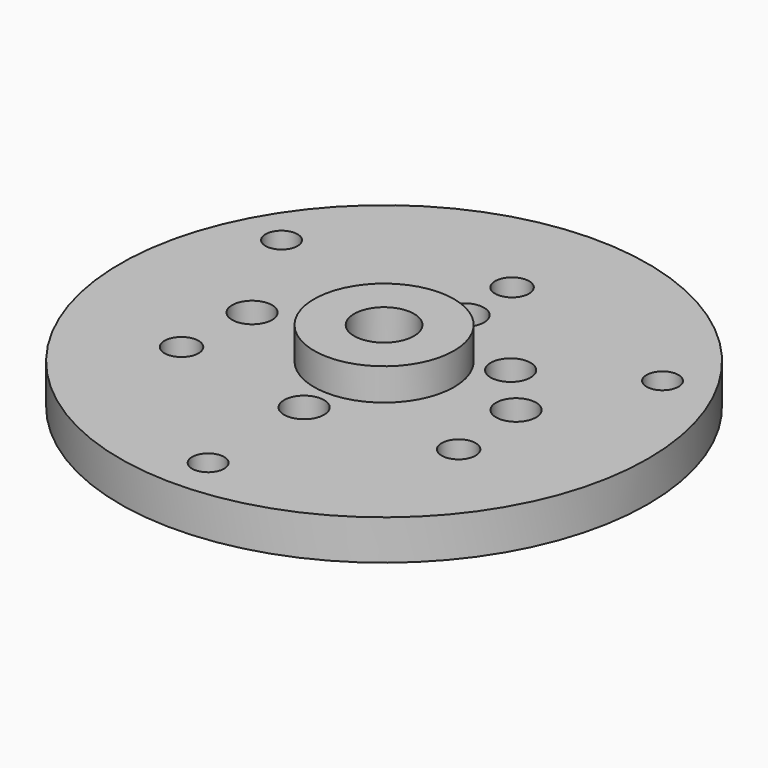
from build123d import *

# Parameters (mm, degrees)
F0_R     = 66
F0_R_2   = 17.5
F0_R_3   = 7.5
F1_DEPTH = 10
F2_DEPTH = 18
F3_R     = 5
F3_R_2   = 4.25
F3_R_3   = 4
F4_DEPTH = 10


with BuildPart() as f1:
    # F0 (on Top) → F1 (new body)
    with BuildSketch(Plane.XY):
        Circle(F0_R)
        Circle(F0_R_2, mode=Mode.SUBTRACT)
        Circle(F0_R_2)
        Circle(F0_R_3, mode=Mode.SUBTRACT)
    extrude(amount=F1_DEPTH)

    # F0 (on Top) → F2 (join)
    with BuildSketch(Plane.XY):
        Circle(F0_R_2)
        Circle(F0_R_3, mode=Mode.SUBTRACT)
    extrude(amount=F2_DEPTH)

    # F3 (on face) → F4 (cut, through all)
    with BuildSketch(Plane.XY.offset(10)):
        with Locations((0, -25)):
            Circle(F3_R)
        with Locations((21.650635, 12.5)):
            Circle(F3_R)
        with Locations((0, 25)):
            Circle(F3_R)
        with Locations((-21.650635, 12.5)):
            Circle(F3_R)
        with Locations((-33, 0)):
            Circle(F3_R)
        with Locations((33, 0)):
            Circle(F3_R)
        with Locations((-34.641016, -20)):
            Circle(F3_R_2)
        with Locations((0, 40)):
            Circle(F3_R_2)
        with Locations((34.641016, -20)):
            Circle(F3_R_2)
        with Locations((0, -55)):
            Circle(F3_R_3)
        with Locations((-47.631397, 27.5)):
            Circle(F3_R_3)
        with Locations((47.631397, 27.5)):
            Circle(F3_R_3)
    extrude(amount=-F4_DEPTH, mode=Mode.SUBTRACT)


solid = f1.part
